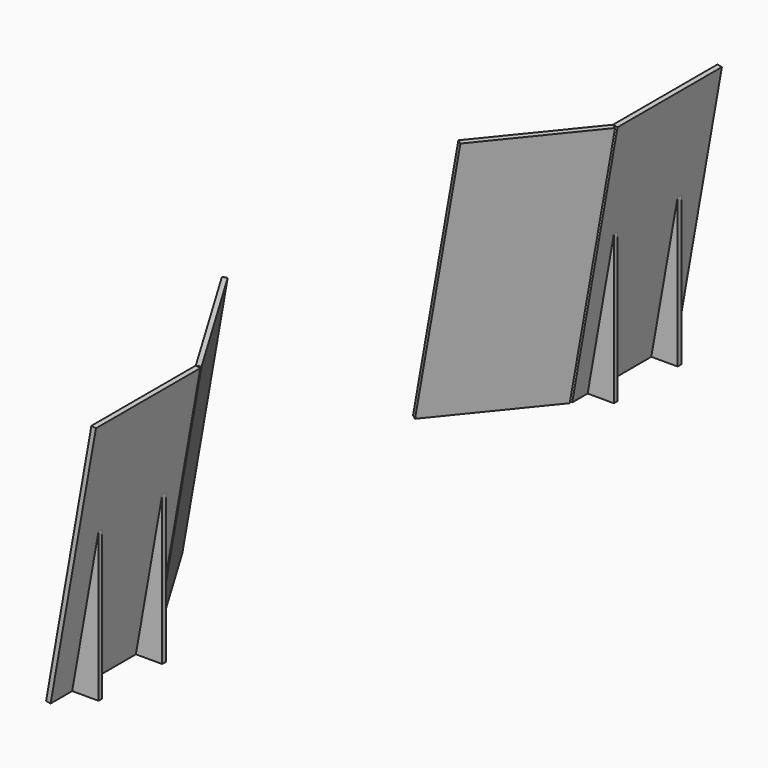
from build123d import *

# Parameters (mm, degrees)
F0_W     = 35
F0_H     = 1000
F1_DEPTH = 2000
F2_ANGLE = -10
F3_W     = 201.3507133838
F3_H     = 35


with BuildPart() as f1:
    # F0 (on Top) → F1 (new body)
    with BuildSketch(Plane.XY):
        with Locations((17.5, -500)):
            Rectangle(F0_W, F0_H)
    extrude(amount=F1_DEPTH)


with BuildPart() as f1b:
    # F0 (on Top) → F1, piece 2 (new body)
    with BuildSketch(Plane.XY):
        Polygon((-500, 866.0254037844), (0, 0), (30.3108891325, 17.5), (-469.6891108675, 883.5254037844), align=None)
    extrude(amount=F1_DEPTH)


with BuildPart() as f1_1:
    # F2: moved
    add(f1.part.rotate(Axis((35, -500, 0), (0, -1, 0)), F2_ANGLE))


with BuildPart() as f1b_1:
    # F2: moved
    add(f1b.part.rotate(Axis((35, -500, 0), (0, -1, 0)), F2_ANGLE))


with BuildPart() as f4:
    # F3 (on Top) → F4 (new body, up to the next surface of F1)
    with BuildSketch(Plane.XY):
        with Locations((135.6753566919, -165.4111400775)):
            Rectangle(F3_W, F3_H)
    extrude(until=Until.NEXT, target=f1_1.part)


with BuildPart() as f5_1:
    # F5: copy of F4
    add(f4.part.moved(Location((0, -610, 0))))


with BuildPart() as f7_1:
    # F7: instance of F1b
    add(f1b_1.part.mirror(Plane.XZ.offset(-1998)))


with BuildPart() as f7_2:
    # F7: instance of F1
    add(f1_1.part.mirror(Plane.XZ.offset(-1998)))


with BuildPart() as f7_3:
    # F7: instance of F5_1
    add(f5_1.part.mirror(Plane.XZ.offset(-1998)))


with BuildPart() as f7_4:
    # F7: instance of F4
    add(f4.part.mirror(Plane.XZ.offset(-1998)))


solid = Compound([f1_1.part, f1b_1.part, f4.part, f5_1.part, f7_1.part, f7_2.part, f7_3.part, f7_4.part])
